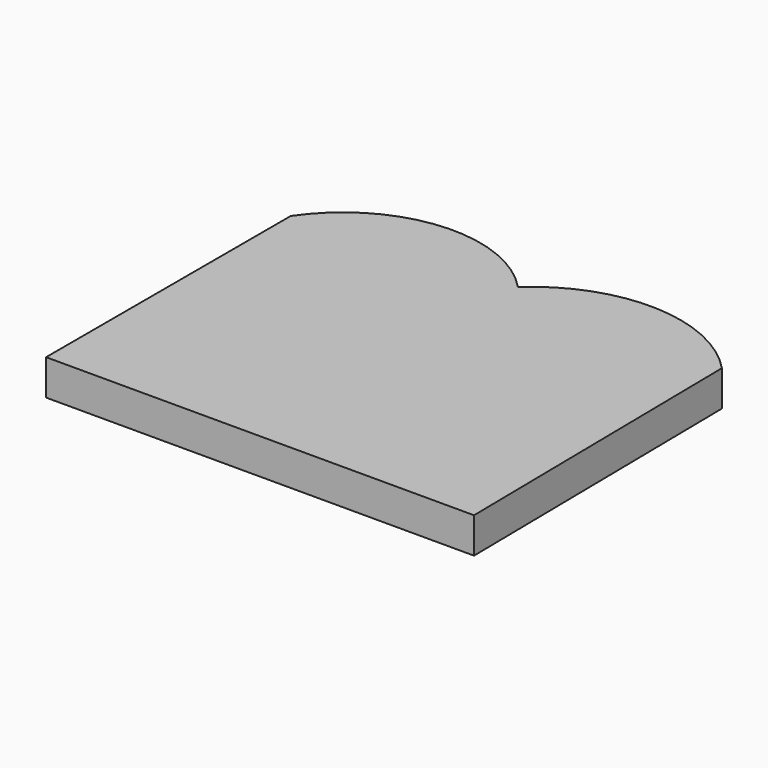
from build123d import *

# Parameters (mm, degrees)
F1_DEPTH = 12.7


with BuildPart() as f1:
    # F0 (on Top) → F1 (new body)
    with BuildSketch(Plane.XY):
        with BuildLine():
            ThreePointArc((0, 58.369204), (-39.566173, 73.648348), (-76.200001, 52.273199))
            Line((-76.200001, 52.273199), (-76.200001, -56.845203))
            Line((-76.200001, -56.845203), (76.504804, -56.845203))
            Line((76.504804, -56.845203), (74.980803, 55.626001))
            ThreePointArc((74.980803, 55.626001), (38.053602, 72.391723), (0, 58.369204))
        make_face()
    extrude(amount=F1_DEPTH)


solid = f1.part
